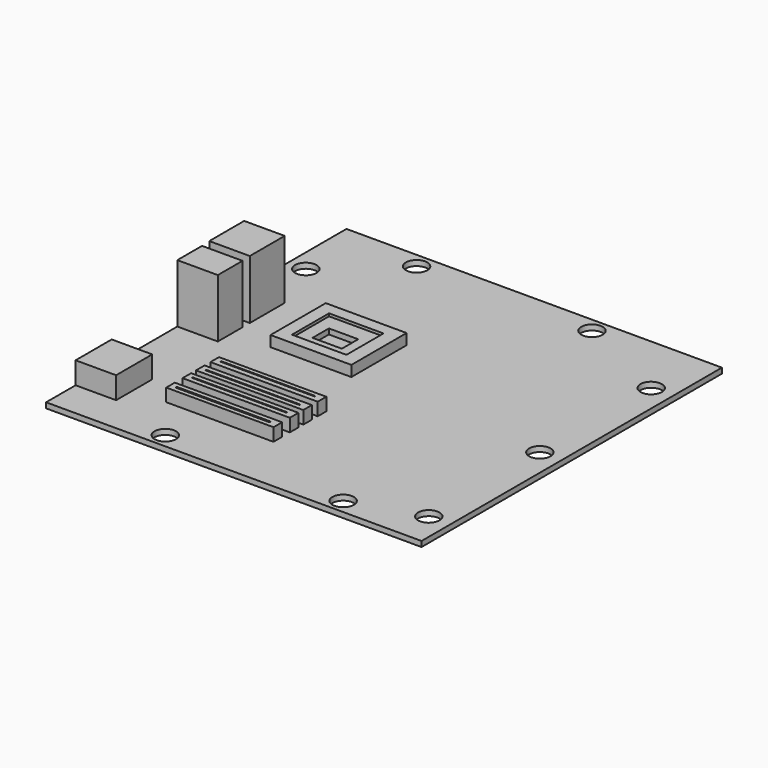
from build123d import *

# Parameters (mm, degrees)
F0_W      = 177.8
F0_H      = 177.8
F1_DEPTH  = 2.54
F2_W      = 19.1831439734
F2_H      = 20.6477418542
F3_DEPTH  = 27.94
F4_W      = 10.8400657773
F4_H      = 3.8665086031
F4_W_2    = 8.9492797852
F4_H_2    = 0.5875341594
F4_H_3    = 4.1402
F4_H_4    = 0.6094495766
F5_DEPTH  = 10.16
F6_W      = 19.1831439734
F6_H      = 14.6254822612
F7_DEPTH  = 27.686
F8_R      = 2.032
F8_R_2    = 1.778
F9_DEPTH  = 1.016
F10_DEPTH = 8.636
F11_W     = 19.1831439734
F11_H     = 21.3800407946
F12_DEPTH = 10.414
F13_W     = 5.7303234935
F13_H     = 0.4988447763
F14_DEPTH = 9.906
F15_R     = 5.08
F16_DEPTH = 2.54
F17_W     = 38.2843576372
F17_H     = 32.6922535896
F17_W_2   = 25.8096791804
F17_H_2   = 21.9382196665
F18_DEPTH = 5.08
F17_W_3   = 13.8996914029
F17_H_3   = 9.7035616636
F19_DEPTH = 3.81
F20_DEPTH = 1.27
F21_W     = 50.8
F21_H     = 5.08
F21_W_2   = 44.6351096034
F21_H_2   = 0.4938840866
F21_H_3   = 0.4938878119
F21_H_4   = 0.7408298552
F22_DEPTH = 6.096


with BuildPart() as f1:
    # F0 (on Top) → F1 (new body)
    with BuildSketch(Plane.XY):
        with Locations((88.9, 88.9)):
            Rectangle(F0_W, F0_H)
    extrude(amount=-F1_DEPTH)

    # F2 (on face) → F3 (join)
    with BuildSketch(Plane.XY):
        with Locations((9.5915719867, 106.9360487163)):
            Rectangle(F2_W, F2_H)
    extrude(amount=F3_DEPTH)

    # F4 (on face) → F5 (cut)
    with BuildSketch(Plane(origin=(0, 0, 0), x_dir=(0, -1, 0), z_dir=(-1, 0, 0))):
        Polygon((-113.1303757429, 19.7547134012), (-113.1303757429, 15.1992412284), (-102.2903099656, 15.1992412284), (-102.2903099656, 19.7547134012), (-104.7438830137, 19.7547134012), (-104.7438830137, 21.687336266), (-106.1243340373, 22.7916929871), (-109.1613098979, 22.7916929871), (-110.4037165642, 21.687336266), (-110.4037165642, 19.7547134012), align=None)
        with Locations((-107.7103428543, 10.8821820468)):
            Rectangle(F4_W, F4_H)
        with Locations((-107.65363276, 11.8099479005)):
            Rectangle(F4_W_2, F4_H_2, mode=Mode.SUBTRACT)
        with Locations((-107.7103428543, 5.8125033508)):
            Rectangle(F4_W, F4_H_3)
        with Locations((-107.65363276, 6.507754093)):
            Rectangle(F4_W_2, F4_H_4, mode=Mode.SUBTRACT)
    extrude(amount=-F5_DEPTH, mode=Mode.SUBTRACT)

    # F6 (on face) → F7 (join)
    with BuildSketch(Plane.XY):
        with Locations((9.5915719867, 84.9978215992)):
            Rectangle(F6_W, F6_H)
    extrude(amount=F7_DEPTH)

    # F8 (on face) → F9 (join)
    with BuildSketch(Plane(origin=(0, 0, 0), x_dir=(0, -1, 0), z_dir=(-1, 0, 0))):
        with Locations((-81.389054656, 22.3253723234)):
            Circle(F8_R)
        with Locations((-81.389054656, 22.3253723234)):
            Circle(F8_R_2, mode=Mode.SUBTRACT)
        with Locations((-87.5466763973, 22.3253723234)):
            Circle(F8_R)
        with Locations((-87.5466763973, 22.3253723234)):
            Circle(F8_R_2, mode=Mode.SUBTRACT)
        with Locations((-81.389054656, 17.514731735)):
            Circle(F8_R)
        with Locations((-81.389054656, 17.514731735)):
            Circle(F8_R_2, mode=Mode.SUBTRACT)
        with Locations((-87.5466763973, 17.514731735)):
            Circle(F8_R)
        with Locations((-87.5466763973, 17.514731735)):
            Circle(F8_R_2, mode=Mode.SUBTRACT)
        with Locations((-87.5466763973, 12.9927285016)):
            Circle(F8_R)
        with Locations((-87.5466763973, 12.9927285016)):
            Circle(F8_R_2, mode=Mode.SUBTRACT)
        with Locations((-81.389054656, 12.9927285016)):
            Circle(F8_R)
        with Locations((-81.389054656, 12.9927285016)):
            Circle(F8_R_2, mode=Mode.SUBTRACT)
    extrude(amount=F9_DEPTH)

    # F10 (cut): faces of the model
    f10_faces = [f1.faces().sort_by_distance(p)[0] for p in [
        (0, 87.5466763973, 22.3253723234),
        (0, 81.389054656, 22.3253723234),
        (0, 81.389054656, 17.514731735),
        (0, 87.5466763973, 17.514731735),
        (0, 87.5466763973, 12.9927285016),
        (0, 81.389054656, 12.9927285016),
    ]]
    extrude(f10_faces, amount=-F10_DEPTH, mode=Mode.SUBTRACT)

    # F11 (on face) → F12 (join)
    with BuildSketch(Plane.XY):
        with Locations((9.5915719867, 28.152519837)):
            Rectangle(F11_W, F11_H)
    extrude(amount=F12_DEPTH)

    # F13 (on face) → F14 (cut)
    with BuildSketch(Plane(origin=(0, 0, 0), x_dir=(0, -1, 0), z_dir=(-1, 0, 0))):
        Polygon((-22.7655656636, 7.4490238912), (-32.3871783912, 7.4490238912), (-32.6265096664, 7.4490238912), (-32.6265096664, 6.2306667678), (-31.4621403813, 5.4544191808), (-24.1432320327, 5.4544191808), (-22.7655656636, 6.1802398413), align=None)
        with Locations((-27.5743678212, 6.5413808916)):
            Rectangle(F13_W, F13_H, mode=Mode.SUBTRACT)
    extrude(amount=-F14_DEPTH, mode=Mode.SUBTRACT)

    # F15 (on face) → F16 (cut)
    with BuildSketch(Plane.XY):
        with Locations((8.3175301552, 143.3550566435)):
            Circle(F15_R)
        with Locations((38.9705635607, 170.5999225378)):
            Circle(F15_R)
        with Locations((121.8317523599, 170.8181649446)):
            Circle(F15_R)
        with Locations((167.6036119461, 148.6765746641)):
            Circle(F15_R)
        with Locations((167.6036119461, 82.7650804687)):
            Circle(F15_R)
        with Locations((167.6036119461, 17.0247107744)):
            Circle(F15_R)
        with Locations((135.1055949926, 6.9549023174)):
            Circle(F15_R)
        with Locations((50.8853644133, 6.9549023174)):
            Circle(F15_R)
    extrude(amount=-F16_DEPTH, mode=Mode.SUBTRACT)

    # F17 (on face) → F18 (join)
    with BuildSketch(Plane.XY):
        with Locations((56.3920978457, 102.6344373822)):
            Rectangle(F17_W, F17_H)
        with Locations((56.1770182103, 102.4193540215)):
            Rectangle(F17_W_2, F17_H_2, mode=Mode.SUBTRACT)
    extrude(amount=F18_DEPTH)

    # F17 (on face) → F19 (join)
    with BuildSketch(Plane.XY):
        with Locations((56.1770182103, 102.4193540215)):
            Rectangle(F17_W_2, F17_H_2)
        with Locations((56.2145523727, 100.97207129)):
            Rectangle(F17_W_3, F17_H_3, mode=Mode.SUBTRACT)
    extrude(amount=F19_DEPTH)

    # F20 (add): a face of the model
    f20_faces = [f1.faces().sort_by_distance(p)[0] for p in [
        (56.2145523727, 100.97207129, 0),
    ]]
    extrude(f20_faces, amount=F20_DEPTH)

    # F21 (on face) → F22 (join)
    with BuildSketch(Plane.XY):
        with Locations((60.0478819847, 56.5112678027)):
            Rectangle(F21_W, F21_H)
        with Locations((59.5629252493, 56.7567013204)):
            Rectangle(F21_W_2, F21_H_2, mode=Mode.SUBTRACT)
        with Locations((60.0478819847, 47.9808410323)):
            Rectangle(F21_W, F21_H)
        with Locations((59.5629252493, 47.9284580797)):
            Rectangle(F21_W_2, F21_H_3, mode=Mode.SUBTRACT)
        with Locations((60.0478819847, 40.0191096282)):
            Rectangle(F21_W, F21_H)
        with Locations((59.5629252493, 40.0879886001)):
            Rectangle(F21_W_2, F21_H_3, mode=Mode.SUBTRACT)
        with Locations((60.0478819847, 30.3512883997)):
            Rectangle(F21_W, F21_H)
        with Locations((59.5629252493, 30.3337052464)):
            Rectangle(F21_W_2, F21_H_4, mode=Mode.SUBTRACT)
    extrude(amount=F22_DEPTH)


solid = f1.part
